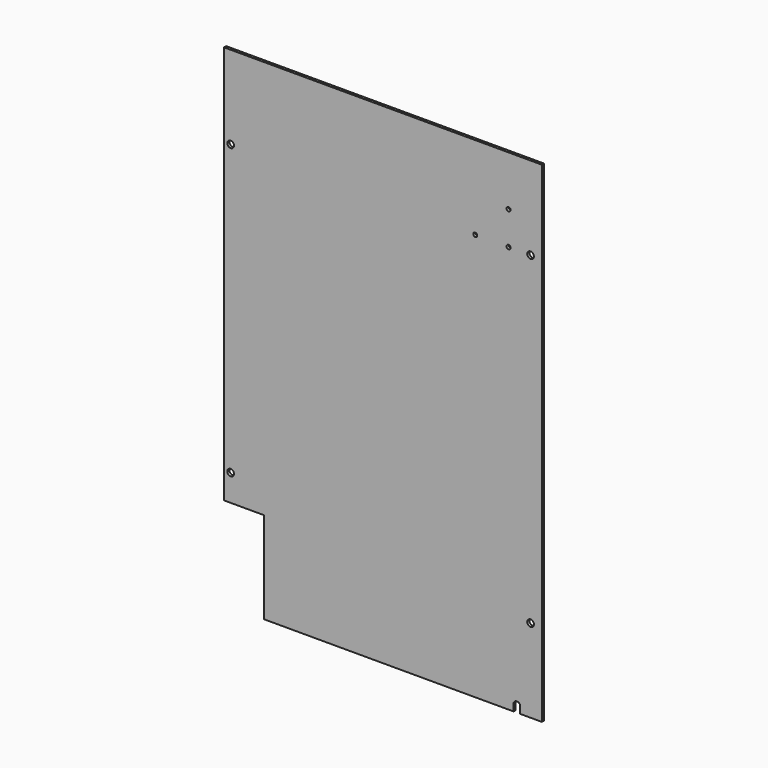
from build123d import *

# Parameters (mm, degrees)
F0_R     = 10
F0_R_2   = 6
F1_DEPTH = 8


with BuildPart() as f1:
    # F0 (on Front) → F1 (new body)
    with BuildSketch(Plane.XZ):
        with BuildLine():
            Line((477, 736), (-477, 736))
            Line((-477, 736), (-477, -461))
            Line((-477, -461), (-357, -461))
            Line((-357, -461), (-357, -736))
            Line((-357, -736), (392, -736))
            Line((392, -736), (392, -716))
            ThreePointArc((392, -716), (402, -706), (412, -716))
            Line((412, -716), (412, -736))
            Line((412, -736), (477, -736))
            Line((477, -736), (477, 736))
        make_face()
        with Locations((-457, -381)):
            Circle(F0_R, mode=Mode.SUBTRACT)
        with Locations((443, -486)):
            Circle(F0_R, mode=Mode.SUBTRACT)
        with Locations((-457, 486)):
            Circle(F0_R, mode=Mode.SUBTRACT)
        with Locations((277, 486)):
            Circle(F0_R_2, mode=Mode.SUBTRACT)
        with Locations((377, 486)):
            Circle(F0_R_2, mode=Mode.SUBTRACT)
        with Locations((443, 486)):
            Circle(F0_R, mode=Mode.SUBTRACT)
        with Locations((377, 586)):
            Circle(F0_R_2, mode=Mode.SUBTRACT)
    extrude(amount=F1_DEPTH)


solid = f1.part
